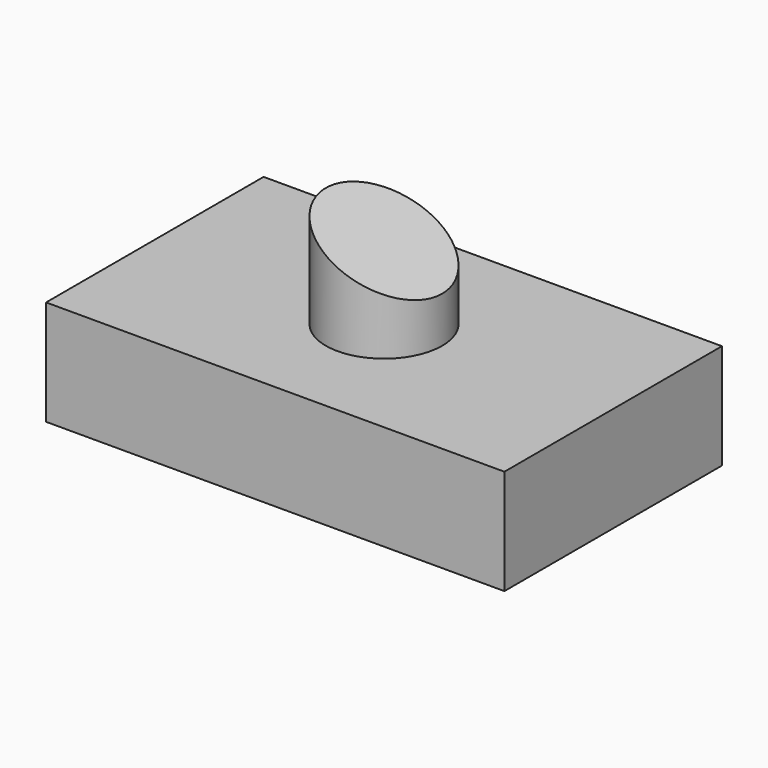
from build123d import *

# Parameters (mm, degrees)
F0_W     = 110.738724
F0_H     = 65.69177
F1_DEPTH = 25.4
F2_R     = 14.059136
F3_DEPTH = 50.8
F5_DEPTH = 50.8
F7_DEPTH = 25.4


with BuildPart() as f1:
    # F0 (on Top) → F1 (new body)
    with BuildSketch(Plane.XY):
        Rectangle(F0_W, F0_H)
    extrude(amount=F1_DEPTH)

    # F2 (on face) → F3 (join)
    with BuildSketch(Plane.XY.offset(25.4)):
        Circle(F2_R)
    extrude(amount=F3_DEPTH)

    # F4 (on Front) → F5 (cut, symmetric)
    with BuildSketch(Plane.XZ):
        Polygon((27.752033, 54.067187), (-22.952005, 54.067187), (27.752033, 29.959714), align=None)
    extrude(amount=F5_DEPTH, both=True, mode=Mode.SUBTRACT)

    # F6 (on Front) → F7 (cut, symmetric)
    with BuildSketch(Plane.XZ):
        Polygon((-32.981899, 81.521302), (-32.981899, 52.895501), (34.759905, 52.895501), (27.647903, 81.521302), align=None)
    extrude(amount=F7_DEPTH, both=True, mode=Mode.SUBTRACT)


solid = f1.part
